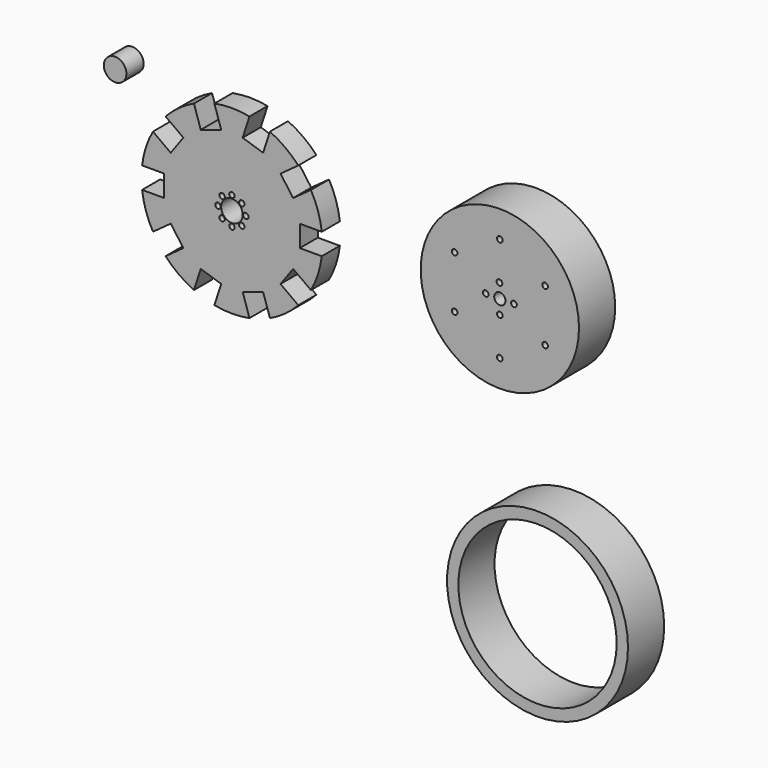
from build123d import *

# Parameters (mm, degrees)
F0_R     = 1.526069
F0_R_2   = 1.518476
F0_R_3   = 1.518025
F0_R_4   = 1.520088
F0_R_5   = 6.034447
F0_R_6   = 1.523363
F0_R_7   = 1.524424
F0_R_8   = 1.519765
F0_R_9   = 1.517901
F1_DEPTH = 12.7
F2_R     = 6.35
F3_DEPTH = 12.065
F4_R     = 44.45
F4_R_2   = 1.5875
F4_R_3   = 1.586403
F4_R_4   = 1.586836
F4_R_5   = 3.175
F5_DEPTH = 25.4
F6_R     = 50.8
F6_R_2   = 44.45
F7_DEPTH = 25.4


with BuildPart() as f1:
    # F0 (on Front) → F1 (new body)
    with BuildSketch(Plane.XZ):
        with BuildLine():
            Line((-9.847814, 49.836338), (-6.034447, 38.1))
            Line((-6.034447, 38.1), (6.034447, 38.1))
            Line((6.034447, 38.1), (9.847814, 49.836338))
            ThreePointArc((9.847814, 49.836338), (0, 50.8), (-9.847814, 49.836338))
        make_face()
        Polygon((6.034447, 38.1), (-6.034447, 38.1), (-17.512648, 34.370507), (-27.276588, 27.276588), (-34.370507, 17.512648), (-38.1, 6.034447), (-38.1, -6.034447), (-34.370507, -17.512648), (-27.276588, -27.276588), (-17.512648, -34.370507), (-6.034447, -38.1), (6.034447, -38.1), (17.512648, -34.370507), (27.276588, -27.276588), (34.370507, -17.512648), (38.1, -6.034447), (38.1, 6.034447), (34.370507, 17.512648), (27.276588, 27.276588), (17.512648, 34.370507), align=None)
        with Locations((-7.834755, 0)):
            Circle(F0_R, mode=Mode.SUBTRACT)
        with Locations((-5.535615, -5.535615)):
            Circle(F0_R_2, mode=Mode.SUBTRACT)
        with Locations((0, -7.828035)):
            Circle(F0_R_3, mode=Mode.SUBTRACT)
        with Locations((5.525908, -5.525908)):
            Circle(F0_R_4, mode=Mode.SUBTRACT)
        Circle(F0_R_5, mode=Mode.SUBTRACT)
        with Locations((7.814948, 0)):
            Circle(F0_R_6, mode=Mode.SUBTRACT)
        with Locations((-5.515537, 5.515537)):
            Circle(F0_R_7, mode=Mode.SUBTRACT)
        with Locations((5.531261, 5.531261)):
            Circle(F0_R_8, mode=Mode.SUBTRACT)
        with Locations((0, 7.822469)):
            Circle(F0_R_9, mode=Mode.SUBTRACT)
        with BuildLine():
            Line((-27.276588, 27.276588), (-17.512648, 34.370507))
            Line((-17.512648, 34.370507), (-21.326015, 46.106844))
            ThreePointArc((-21.326015, 46.106844), (-29.859491, 41.098063), (-37.260114, 34.530044))
            Line((-37.260114, 34.530044), (-27.276588, 27.276588))
        make_face()
        with BuildLine():
            Line((21.326015, 46.106844), (17.512648, 34.370507))
            Line((17.512648, 34.370507), (27.276588, 27.276588))
            Line((27.276588, 27.276588), (37.260114, 34.530044))
            ThreePointArc((37.260114, 34.530044), (29.859491, 41.098063), (21.326015, 46.106844))
        make_face()
        with BuildLine():
            Line((-38.1, 6.034447), (-34.370507, 17.512648))
            Line((-34.370507, 17.512648), (-44.354032, 24.766103))
            ThreePointArc((-44.354032, 24.766103), (-48.313671, 15.698063), (-50.440316, 6.034447))
            Line((-50.440316, 6.034447), (-38.1, 6.034447))
        make_face()
        with BuildLine():
            Line((44.354032, 24.766103), (34.370507, 17.512648))
            Line((34.370507, 17.512648), (38.1, 6.034447))
            Line((38.1, 6.034447), (50.440316, 6.034447))
            ThreePointArc((50.440316, 6.034447), (48.313671, 15.698063), (44.354032, 24.766103))
        make_face()
        with BuildLine():
            Line((-34.370507, -17.512648), (-38.1, -6.034447))
            Line((-38.1, -6.034447), (-50.440316, -6.034447))
            ThreePointArc((-50.440316, -6.034447), (-48.313671, -15.698063), (-44.354032, -24.766103))
            Line((-44.354032, -24.766103), (-34.370507, -17.512648))
        make_face()
        with BuildLine():
            Line((50.440316, -6.034447), (38.1, -6.034447))
            Line((38.1, -6.034447), (34.370507, -17.512648))
            Line((34.370507, -17.512648), (44.354032, -24.766103))
            ThreePointArc((44.354032, -24.766103), (48.313671, -15.698063), (50.440316, -6.034447))
        make_face()
        with BuildLine():
            Line((-17.512648, -34.370507), (-27.276588, -27.276588))
            Line((-27.276588, -27.276588), (-37.260114, -34.530044))
            ThreePointArc((-37.260114, -34.530044), (-29.859491, -41.098063), (-21.326015, -46.106844))
            Line((-21.326015, -46.106844), (-17.512648, -34.370507))
        make_face()
        with BuildLine():
            Line((37.260114, -34.530044), (27.276588, -27.276588))
            Line((27.276588, -27.276588), (17.512648, -34.370507))
            Line((17.512648, -34.370507), (21.326015, -46.106844))
            ThreePointArc((21.326015, -46.106844), (29.859491, -41.098063), (37.260114, -34.530044))
        make_face()
        with BuildLine():
            Line((6.034447, -38.1), (-6.034447, -38.1))
            Line((-6.034447, -38.1), (-9.847814, -49.836338))
            ThreePointArc((-9.847814, -49.836338), (0, -50.8), (9.847814, -49.836338))
            Line((9.847814, -49.836338), (6.034447, -38.1))
        make_face()
    extrude(amount=F1_DEPTH)


with BuildPart() as f3:
    # F2 (on Front) → F3 (new body)
    with BuildSketch(Plane.XZ):
        with Locations((-66.100769, 48.108086)):
            Circle(F2_R)
    extrude(amount=F3_DEPTH)


with BuildPart() as f5:
    # F4 (on Front) → F5 (new body)
    with BuildSketch(Plane.XZ):
        with Locations((160.597886, 13.935849)):
            Circle(F4_R)
        with Locations((135.197891, -0.728889)):
            Circle(F4_R_2, mode=Mode.SUBTRACT)
        with Locations((160.597886, 6.001641)):
            Circle(F4_R_3, mode=Mode.SUBTRACT)
        with Locations((152.660385, 13.935843)):
            Circle(F4_R_2, mode=Mode.SUBTRACT)
        with Locations((160.597891, -15.393586)):
            Circle(F4_R_2, mode=Mode.SUBTRACT)
        with Locations((168.533396, 13.935838)):
            Circle(F4_R_4, mode=Mode.SUBTRACT)
        with Locations((185.997891, -0.728889)):
            Circle(F4_R_2, mode=Mode.SUBTRACT)
        with Locations((135.197891, 28.600505)):
            Circle(F4_R_2, mode=Mode.SUBTRACT)
        with Locations((160.389795, 21.866524)):
            Circle(F4_R_2, mode=Mode.SUBTRACT)
        with Locations((160.597886, 13.935849)):
            Circle(F4_R_5, mode=Mode.SUBTRACT)
        with Locations((185.997891, 28.600505)):
            Circle(F4_R_2, mode=Mode.SUBTRACT)
        with Locations((160.597891, 43.265202)):
            Circle(F4_R_2, mode=Mode.SUBTRACT)
    extrude(amount=F5_DEPTH)


with BuildPart() as f7:
    # F6 (on Front) → F7 (new body)
    with BuildSketch(Plane.XZ):
        with Locations((181.750253, -134.976819)):
            Circle(F6_R)
        with Locations((181.750253, -134.976819)):
            Circle(F6_R_2, mode=Mode.SUBTRACT)
    extrude(amount=F7_DEPTH)


solid = Compound([f1.part, f3.part, f5.part, f7.part])
